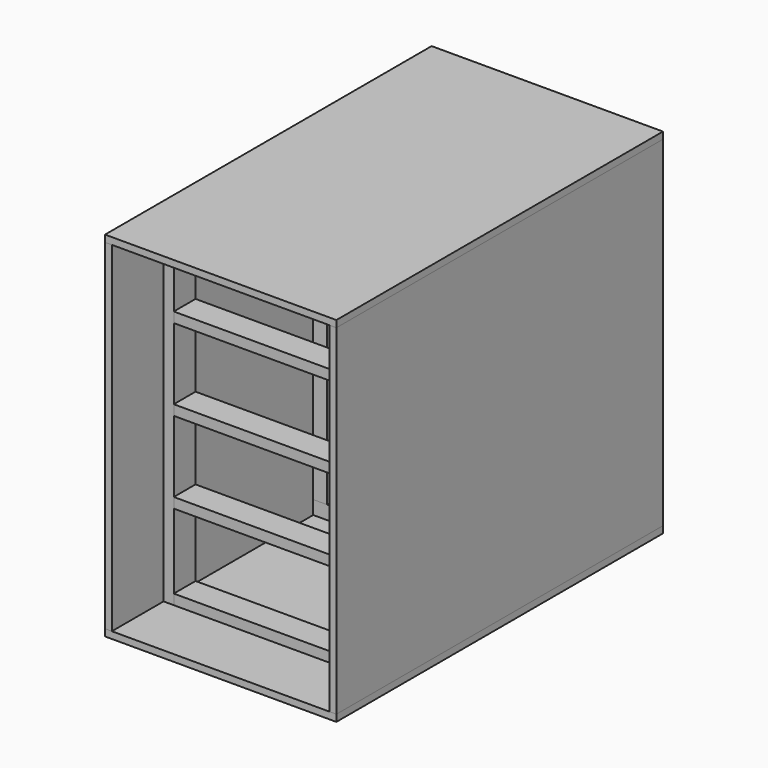
from build123d import *

# Parameters (mm, degrees)
F0_W      = 406.4
F0_H      = 635
F1_DEPTH  = 19.05
F3_R      = 99.949
F4_DEPTH  = 19.05
F6_DEPTH  = 635
F7_W      = 431.8
F7_H      = 762
F7_W_2    = 406.4
F7_H_2    = 19.05
F8_DEPTH  = 12.7
F9_W      = 19.05
F9_H      = 50.8
F10_DEPTH = 635
F11_W     = 50.8
F11_H     = 19.05
F12_DEPTH = 368.3
F13_W     = 419.1
F13_H     = 762
F13_W_2   = 12.7
F14_DEPTH = 12.7
F15_W     = 406.4
F15_H     = 19.05
F16_DEPTH = 25.4
F17_W     = 25.4
F17_H     = 19.05
F18_DEPTH = 609.6


with BuildPart() as f1:
    # F0 (on Front) → F1 (new body)
    with BuildSketch(Plane.XZ):
        Rectangle(F0_W, F0_H)
    extrude(amount=F1_DEPTH)

    # F3 (on face) → F4 (cut, through all)
    with BuildSketch(Plane.XZ.offset(19.05)):
        Circle(F3_R)
    extrude(amount=-F4_DEPTH, mode=Mode.SUBTRACT)


with BuildPart() as f6:
    # F5 (on face) → F6 (new body, through all)
    with BuildSketch(Plane(origin=(0, 0, -317.5), x_dir=(1, 0, 0), z_dir=(0, 0, -1))):
        Polygon((-203.2, -254), (-203.2, 0), (-203.2, 19.05), (-203.2, 508), (-215.9, 508), (-215.9, -254), align=None)
        Polygon((203.2, 0), (203.2, -254), (215.9, -254), (215.9, 508), (203.2, 508), (203.2, 19.05), align=None)
    extrude(amount=-F6_DEPTH)


with BuildPart() as f8:
    # F7 (on face) → F8 (new body)
    with BuildSketch(Plane(origin=(0, 0, -317.5), x_dir=(1, 0, 0), z_dir=(0, 0, -1))):
        with Locations((0, 127)):
            Rectangle(F7_W, F7_H)
        with Locations((0, 9.525)):
            Rectangle(F7_W_2, F7_H_2, mode=Mode.SUBTRACT)
        with Locations((0, 9.525)):
            Rectangle(F7_W_2, F7_H_2)
    extrude(amount=F8_DEPTH)


with BuildPart() as f10:
    # F9 (on face) → F10 (new body, through all)
    with BuildSketch(Plane.XY.offset(-317.5)):
        with Locations((-193.675, -361.95)):
            Rectangle(F9_W, F9_H)
        with Locations((193.675, -361.95)):
            Rectangle(F9_W, F9_H)
    extrude(amount=F10_DEPTH)


with BuildPart() as f12:
    # F11 (on face) → F12 (new body, through all)
    with BuildSketch(Plane.YZ.offset(-184.15)):
        with Locations((-361.95, 307.975)):
            Rectangle(F11_W, F11_H)
        with Locations((-361.95, -307.975)):
            Rectangle(F11_W, F11_H)
        with Locations((-361.95, 155.575)):
            Rectangle(F11_W, F11_H)
        with Locations((-361.95, 3.175)):
            Rectangle(F11_W, F11_H)
        with Locations((-361.95, -149.225)):
            Rectangle(F11_W, F11_H)
    extrude(amount=F12_DEPTH)


with BuildPart() as f14:
    # F13 (on face) → F14 (new body)
    with BuildSketch(Plane.XY.offset(317.5)):
        with Locations((6.35, -127)):
            Rectangle(F13_W, F13_H)
        with Locations((-209.55, -127)):
            Rectangle(F13_W_2, F13_H)
    extrude(amount=F14_DEPTH)


with BuildPart() as f16:
    # F15 (on face) → F16 (new body)
    with BuildSketch(Plane.XY.offset(-317.5)):
        with Locations((0, 9.525)):
            Rectangle(F15_W, F15_H)
        with Locations((0, -28.575)):
            Rectangle(F15_W, F15_H)
    extrude(amount=F16_DEPTH)


with BuildPart() as f18:
    # F17 (on face) → F18 (new body, through all)
    with BuildSketch(Plane.XY.offset(-292.1)):
        with Locations((190.5, 9.525)):
            Rectangle(F17_W, F17_H)
        with Locations((190.5, -28.575)):
            Rectangle(F17_W, F17_H)
        with Locations((-190.5, -28.575)):
            Rectangle(F17_W, F17_H)
        with Locations((-190.5, 9.525)):
            Rectangle(F17_W, F17_H)
    extrude(amount=F18_DEPTH)


with BuildPart() as f19_1:
    # F19: copy of F12
    add(f12.part.moved(Location((0, 590.55, 0))))


with BuildPart() as f19_2:
    # F19: copy of F10
    add(f10.part.moved(Location((0, 590.55, 0))))


solid = Compound([f1.part, f6.part, f8.part, f10.part, f12.part, f14.part, f16.part, f18.part, f19_1.part, f19_2.part])
